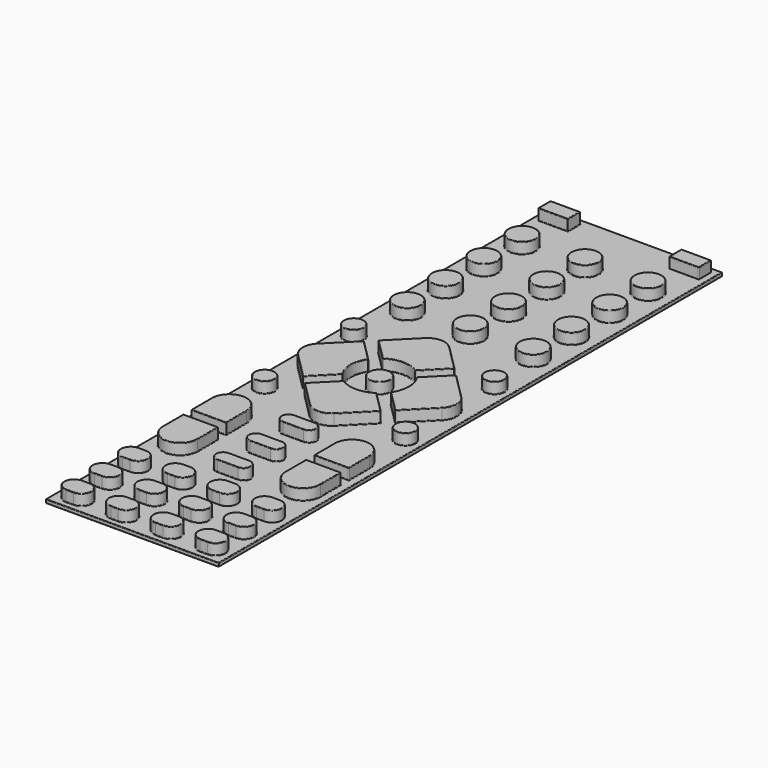
from build123d import *

# Parameters (mm, degrees)
F2_W     = 36.8935
F2_H     = 134.286625
F3_DEPTH = 0.79375
F1_W     = 6.35
F1_H     = 3.302
F1_R     = 2.921
F1_R_2   = 2.12725
F1_R_3   = 2.286
F4_DEPTH = 2.3495
F5_W     = 6.35
F5_H     = 3.302
F6_DEPTH = 2.3495
F7_R     = 0.127
F7_2_R   = 0.127


with BuildPart() as f3:
    # F2 (on Top) → F3 (new body)
    with BuildSketch(Plane.XY):
        with Locations((0.03175, 1.138238)):
            Rectangle(F2_W, F2_H)
    extrude(amount=-F3_DEPTH)

    # F1 (on Top) → F4 (join)
    with BuildSketch(Plane.XY):
        with Locations((-13.97, 65.36055)):
            Rectangle(F1_W, F1_H)
        with Locations((-13.4366, 54.7878)):
            Circle(F1_R)
        with Locations((0, 54.7878)):
            Circle(F1_R)
        with Locations((13.4366, 54.7878)):
            Circle(F1_R)
        with Locations((-13.4366, 44.586798)):
            Circle(F1_R)
        with Locations((0, 44.586798)):
            Circle(F1_R)
        with Locations((13.4366, 44.586798)):
            Circle(F1_R)
        with Locations((-13.4366, 34.385797)):
            Circle(F1_R)
        with Locations((0, 34.385797)):
            Circle(F1_R)
        with Locations((13.4366, 34.385797)):
            Circle(F1_R)
        with Locations((-13.4366, 24.184795)):
            Circle(F1_R)
        with Locations((0, 24.184795)):
            Circle(F1_R)
        with Locations((13.4366, 24.184795)):
            Circle(F1_R)
        with Locations((-15.01775, 11.880948)):
            Circle(F1_R_2)
        with Locations((15.01775, 11.880948)):
            Circle(F1_R_2)
        with BuildLine():
            ThreePointArc((-3.463708, 5.169957), (0, 6.223), (3.463708, 5.169957))
            Line((3.463708, 5.169957), (8.128547, 9.834796))
            Line((8.128547, 9.834796), (2.604274, 15.359069))
            ThreePointArc((2.604274, 15.359069), (0, 16.437795), (-2.604274, 15.359069))
            Line((-2.604274, 15.359069), (-8.128547, 9.834796))
            Line((-8.128547, 9.834796), (-3.463708, 5.169957))
        make_face()
        with BuildLine():
            ThreePointArc((5.169957, 3.463708), (6.223, 0), (5.169957, -3.463708))
            Line((5.169957, -3.463708), (9.834796, -8.128547))
            Line((9.834796, -8.128547), (15.359069, -2.604274))
            ThreePointArc((15.359069, -2.604274), (16.437795, 0), (15.359069, 2.604274))
            Line((15.359069, 2.604274), (9.834796, 8.128547))
            Line((9.834796, 8.128547), (5.169957, 3.463708))
        make_face()
        with BuildLine():
            Line((-15.359069, -2.604274), (-9.834796, -8.128547))
            Line((-9.834796, -8.128547), (-5.169957, -3.463708))
            ThreePointArc((-5.169957, -3.463708), (-6.223, 0), (-5.169957, 3.463708))
            Line((-5.169957, 3.463708), (-9.834796, 8.128547))
            Line((-9.834796, 8.128547), (-15.359069, 2.604274))
            ThreePointArc((-15.359069, 2.604274), (-16.437795, 0), (-15.359069, -2.604274))
        make_face()
        Circle(F1_R_3)
        with Locations((15.01775, -11.880948)):
            Circle(F1_R_2)
        with BuildLine():
            ThreePointArc((3.463708, -5.169957), (0, -6.223), (-3.463708, -5.169957))
            Line((-3.463708, -5.169957), (-8.128547, -9.834796))
            Line((-8.128547, -9.834796), (-2.604274, -15.359069))
            ThreePointArc((-2.604274, -15.359069), (0, -16.437795), (2.604274, -15.359069))
            Line((2.604274, -15.359069), (8.128547, -9.834796))
            Line((8.128547, -9.834796), (3.463708, -5.169957))
        make_face()
        with Locations((-15.01775, -11.880948)):
            Circle(F1_R_2)
        with BuildLine():
            Line((-16.811625, -29.211998), (-9.382125, -29.211998))
            Line((-9.382125, -29.211998), (-9.382125, -23.708545))
            ThreePointArc((-9.382125, -23.708545), (-13.096875, -19.993795), (-16.811625, -23.708545))
            Line((-16.811625, -23.708545), (-16.811625, -29.211998))
        make_face()
        with BuildLine():
            Line((-2.182812, -23.05767), (2.182813, -23.05767))
            ThreePointArc((2.182813, -23.05767), (3.71475, -21.525733), (2.182813, -19.993795))
            Line((2.182813, -19.993795), (-2.182812, -19.993795))
            ThreePointArc((-2.182812, -19.993795), (-3.71475, -21.525733), (-2.182812, -23.05767))
        make_face()
        with BuildLine():
            Line((16.811625, -29.211998), (16.811625, -23.708545))
            ThreePointArc((16.811625, -23.708545), (13.096875, -19.993795), (9.382125, -23.708545))
            Line((9.382125, -23.708545), (9.382125, -29.211998))
            Line((9.382125, -29.211998), (16.811625, -29.211998))
        make_face()
        with BuildLine():
            Line((-16.811625, -31.307498), (-16.811625, -36.81095))
            ThreePointArc((-16.811625, -36.81095), (-13.096875, -40.5257), (-9.382125, -36.81095))
            Line((-9.382125, -36.81095), (-9.382125, -31.307498))
            Line((-9.382125, -31.307498), (-16.811625, -31.307498))
        make_face()
        with BuildLine():
            Line((2.182813, -28.72781), (-2.182812, -28.72781))
            ThreePointArc((-2.182812, -28.72781), (-3.71475, -30.259748), (-2.182812, -31.791685))
            Line((-2.182812, -31.791685), (2.182813, -31.791685))
            ThreePointArc((2.182813, -31.791685), (3.71475, -30.259748), (2.182813, -28.72781))
        make_face()
        with BuildLine():
            ThreePointArc((9.382125, -36.81095), (13.096875, -40.5257), (16.811625, -36.81095))
            Line((16.811625, -36.81095), (16.811625, -31.307498))
            Line((16.811625, -31.307498), (9.382125, -31.307498))
            Line((9.382125, -31.307498), (9.382125, -36.81095))
        make_face()
        with BuildLine():
            Line((2.182813, -37.461825), (-2.182812, -37.461825))
            ThreePointArc((-2.182812, -37.461825), (-3.71475, -38.993763), (-2.182812, -40.5257))
            Line((-2.182812, -40.5257), (2.182813, -40.5257))
            ThreePointArc((2.182813, -40.5257), (3.71475, -38.993763), (2.182813, -37.461825))
        make_face()
        with BuildLine():
            Line((-13.49375, -52.93995), (-15.08125, -52.93995))
            ThreePointArc((-15.08125, -52.93995), (-17.2085, -55.0672), (-15.08125, -57.19445))
            Line((-15.08125, -57.19445), (-13.49375, -57.19445))
            ThreePointArc((-13.49375, -57.19445), (-11.3665, -55.0672), (-13.49375, -52.93995))
        make_face()
        with BuildLine():
            Line((-3.96875, -52.93995), (-5.55625, -52.93995))
            ThreePointArc((-5.55625, -52.93995), (-7.6835, -55.0672), (-5.55625, -57.19445))
            Line((-5.55625, -57.19445), (-3.96875, -57.19445))
            ThreePointArc((-3.96875, -57.19445), (-1.8415, -55.0672), (-3.96875, -52.93995))
        make_face()
        with BuildLine():
            Line((5.55625, -52.93995), (3.96875, -52.93995))
            ThreePointArc((3.96875, -52.93995), (1.8415, -55.0672), (3.96875, -57.19445))
            Line((3.96875, -57.19445), (5.55625, -57.19445))
            ThreePointArc((5.55625, -57.19445), (7.6835, -55.0672), (5.55625, -52.93995))
        make_face()
        with BuildLine():
            Line((15.08125, -52.93995), (13.49375, -52.93995))
            ThreePointArc((13.49375, -52.93995), (11.3665, -55.0672), (13.49375, -57.19445))
            Line((13.49375, -57.19445), (15.08125, -57.19445))
            ThreePointArc((15.08125, -57.19445), (17.2085, -55.0672), (15.08125, -52.93995))
        make_face()
        with BuildLine():
            Line((-13.49375, -60.480575), (-15.08125, -60.480575))
            ThreePointArc((-15.08125, -60.480575), (-17.2085, -62.607825), (-15.08125, -64.735075))
            Line((-15.08125, -64.735075), (-13.49375, -64.735075))
            ThreePointArc((-13.49375, -64.735075), (-11.3665, -62.607825), (-13.49375, -60.480575))
        make_face()
        with BuildLine():
            Line((-3.96875, -60.480575), (-5.55625, -60.480575))
            ThreePointArc((-5.55625, -60.480575), (-7.6835, -62.607825), (-5.55625, -64.735075))
            Line((-5.55625, -64.735075), (-3.96875, -64.735075))
            ThreePointArc((-3.96875, -64.735075), (-1.8415, -62.607825), (-3.96875, -60.480575))
        make_face()
        with BuildLine():
            Line((5.55625, -60.480575), (3.96875, -60.480575))
            ThreePointArc((3.96875, -60.480575), (1.8415, -62.607825), (3.96875, -64.735075))
            Line((3.96875, -64.735075), (5.55625, -64.735075))
            ThreePointArc((5.55625, -64.735075), (7.6835, -62.607825), (5.55625, -60.480575))
        make_face()
        with BuildLine():
            Line((15.08125, -60.480575), (13.49375, -60.480575))
            ThreePointArc((13.49375, -60.480575), (11.3665, -62.607825), (13.49375, -64.735075))
            Line((13.49375, -64.735075), (15.08125, -64.735075))
            ThreePointArc((15.08125, -64.735075), (17.2085, -62.607825), (15.08125, -60.480575))
        make_face()
    extrude(amount=F4_DEPTH)

    # F7
    f7_edges = [f3.edges().sort_by_distance(p)[0] for p in [
        (18.4785, 1.138238, 0),
        (-18.415, 1.138238, 0),
        (0.03175, -66.005075, 0),
        (16.811625, -34.059224, 0),
        (9.382125, -26.460271, 2.3495),
        (16.811625, -26.460271, 2.3495),
        (9.382125, -34.059224, 2.3495),
        (13.096875, -29.211998, 2.3495),
        (9.834796, -8.128547, 1.17475),
        (16.811625, -34.059224, 2.3495),
        (11.3665, -62.607825, 0),
        (14.2875, -64.735075, 0),
        (17.2085, -62.607825, 0),
        (11.3665, -62.607825, 2.3495),
        (14.2875, -64.735075, 2.3495),
        (17.2085, -62.607825, 2.3495),
        (13.49375, -60.480575, 1.17475),
        (1.8415, -62.607825, 0),
        (4.7625, -64.735075, 0),
        (7.6835, -62.607825, 0),
        (1.8415, -62.607825, 2.3495),
        (4.7625, -64.735075, 2.3495),
        (7.6835, -62.607825, 2.3495),
        (-17.2085, -62.607825, 0),
        (-14.2875, -64.735075, 0),
        (-11.3665, -62.607825, 0),
        (-17.2085, -62.607825, 2.3495),
        (-14.2875, -64.735075, 2.3495),
        (-11.3665, -62.607825, 2.3495),
        (-15.08125, -60.480575, 1.17475),
        (-13.97, 63.70955, 0),
        (0.03175, 68.28155, 0),
        (18.4785, 1.138238, -0.79375),
        (0.03175, 68.28155, -0.79375),
        (-18.415, 1.138238, -0.79375),
        (0.03175, -66.005075, -0.79375),
        (-15.08125, -64.735075, 1.17475),
        (5.55625, -60.480575, 1.17475),
        (13.49375, -64.735075, 1.17475),
        (7.6835, -55.0672, 0),
        (18.4785, -66.005075, -0.396875),
        (-18.415, -66.005075, -0.396875),
        (1.8415, -55.0672, 0),
        (-11.3665, -55.0672, 0),
        (3.71475, -38.993763, 0),
        (0, -40.5257, 0),
        (-17.2085, -55.0672, 0),
        (13.096875, -40.5257, 0),
        (9.382125, -34.059224, 0),
        (13.096875, -31.307498, 0),
        (3.71475, -30.259748, 0),
        (-9.382125, -34.059224, 0),
        (0, -28.72781, 0),
        (13.096875, -19.993795, 0),
        (16.811625, -26.460271, 0),
        (13.096875, -29.211998, 0),
        (9.382125, -26.460271, 0),
        (3.71475, -21.525733, 0),
        (0, -23.05767, 0),
        (-9.382125, -26.460271, 0),
        (5.796128, -7.502377, 0),
        (0, -16.437795, 0),
        (-12.596933, -5.366411, 0),
        (12.8905, -11.880948, 0),
        (6.223, 0, 0),
        (12.596933, -5.366411, 0),
        (7.502377, -5.796128, 0),
        (1.8415, -55.0672, 2.3495),
        (-14.2875, -57.19445, 2.3495),
        (-11.3665, -55.0672, 2.3495),
        (-17.2085, -55.0672, 2.3495),
        (0, -40.5257, 2.3495),
        (0, -37.461825, 2.3495),
        (-13.49375, -64.735075, 1.17475),
        (13.096875, -40.5257, 2.3495),
        (15.08125, -64.735075, 1.17475),
        (3.71475, -30.259748, 2.3495),
        (3.96875, -64.735075, 1.17475),
        (-13.49375, -60.480575, 1.17475),
        (3.96875, -60.480575, 1.17475),
        (-16.811625, -34.059224, 2.3495),
        (5.55625, -64.735075, 1.17475),
        (-9.382125, -34.059224, 2.3495),
        (0, -31.791685, 2.3495),
        (16.437795, 0, 0),
        (7.6835, -55.0672, 2.3495),
        (17.2085, -55.0672, 2.3495),
        (15.08125, -60.480575, 1.17475),
        (-8.128547, 9.834796, 1.17475),
        (-5.796128, 7.502377, 2.3495),
        (9.834796, 8.128547, 1.17475),
        (5.169957, -3.463708, 1.17475),
        (15.359069, -2.604274, 1.17475),
        (16.437795, 0, 2.3495),
        (12.596933, -5.366411, 2.3495),
        (7.502377, -5.796128, 2.3495),
        (6.223, 0, 2.3495),
        (12.8905, -11.880948, 2.3495),
        (8.128547, -9.834796, 1.17475),
        (-8.128547, -9.834796, 1.17475),
        (-2.604274, -15.359069, 1.17475),
        (2.604274, -15.359069, 1.17475),
        (0, -16.437795, 2.3495),
        (-5.366411, -12.596933, 2.3495),
        (5.796128, -7.502377, 2.3495),
        (5.366411, -12.596933, 2.3495),
        (5.366411, -12.596933, 0),
        (-13.096875, -29.211998, 2.3495),
        (-16.811625, -26.460271, 2.3495),
        (-9.382125, -26.460271, 2.3495),
        (2.182813, -19.993795, 1.17475),
        (2.182813, -23.05767, 1.17475),
        (0, -23.05767, 2.3495),
        (0, -19.993795, 2.3495),
        (3.71475, -21.525733, 2.3495),
        (0, -19.993795, 0),
        (16.811625, -29.211998, 1.17475),
        (16.811625, -23.708545, 1.17475),
        (13.096875, -19.993795, 2.3495),
        (2.182813, -31.791685, 1.17475),
        (2.182813, -28.72781, 1.17475),
        (0, -28.72781, 2.3495),
        (0, -31.791685, 0),
        (16.811625, -31.307498, 1.17475),
        (9.382125, -31.307498, 1.17475),
        (16.811625, -36.81095, 1.17475),
        (13.096875, -31.307498, 2.3495),
        (2.182813, -40.5257, 1.17475),
        (2.182813, -37.461825, 1.17475),
        (3.71475, -38.993763, 2.3495),
        (0, -37.461825, 0),
        (-15.08125, -57.19445, 1.17475),
        (-13.49375, -57.19445, 1.17475),
        (-13.49375, -52.93995, 1.17475),
        (-15.08125, -52.93995, 1.17475),
        (3.96875, -57.19445, 1.17475),
        (5.55625, -57.19445, 1.17475),
        (5.55625, -52.93995, 1.17475),
        (3.96875, -52.93995, 1.17475),
        (15.08125, -57.19445, 1.17475),
        (15.08125, -52.93995, 1.17475),
        (17.2085, -55.0672, 0),
        (14.2875, -60.480575, 0),
        (14.2875, -60.480575, 2.3495),
        (4.7625, -60.480575, 0),
        (4.7625, -60.480575, 2.3495),
        (-7.6835, -62.607825, 0),
        (-4.7625, -64.735075, 0),
        (-1.8415, -62.607825, 0),
        (-7.6835, -62.607825, 2.3495),
        (-4.7625, -64.735075, 2.3495),
        (-1.8415, -62.607825, 2.3495),
        (-3.96875, -60.480575, 1.17475),
        (-14.2875, -60.480575, 0),
        (-14.2875, -60.480575, 2.3495),
        (11.3665, -55.0672, 0),
        (14.2875, -57.19445, 0),
        (-17.145, 65.36055, 0),
        (-10.795, 65.36055, 0),
        (-17.145, 67.01155, 1.17475),
        (18.4785, 68.28155, -0.396875),
        (-2.921, 54.7878, 0),
        (-2.921, 34.385797, 0),
        (-3.96875, -64.735075, 1.17475),
        (-2.921, 24.184795, 0),
        (12.8905, 11.880948, 0),
        (-17.145, -11.880948, 0),
        (4.7625, -57.19445, 0),
        (14.2875, -52.93995, 0),
        (-7.6835, -55.0672, 0),
        (-1.8415, -55.0672, 0),
        (-14.2875, -52.93995, 0),
        (-3.71475, -38.993763, 0),
        (5.366411, 12.596933, 2.3495),
        (-13.096875, -31.307498, 0),
        (-5.366411, 12.596933, 2.3495),
        (-3.71475, -30.259748, 0),
        (5.796128, 7.502377, 2.3495),
        (-13.096875, -40.5257, 0),
        (-17.145, 11.880948, 2.3495),
        (12.8905, 11.880948, 2.3495),
        (-3.71475, -21.525733, 0),
        (-16.811625, -26.460271, 0),
        (-13.096875, -19.993795, 0),
        (-16.3576, 34.385797, 2.3495),
        (-5.366411, -12.596933, 0),
        (0, -6.223, 0),
        (-16.3576, 44.586798, 2.3495),
        (-2.286, 0, 0),
        (-5.796128, -7.502377, 0),
        (-6.223, 0, 0),
        (-7.502377, -5.796128, 0),
        (-7.502377, 5.796128, 0),
        (-12.596933, 5.366411, 0),
        (0, 6.223, 0),
        (-3.71475, -38.993763, 2.3495),
        (-1.8415, -55.0672, 2.3495),
        (-16.3576, 44.586798, 0),
        (10.5156, 34.385797, 2.3495),
        (-5.55625, -60.480575, 1.17475),
        (-2.921, 44.586798, 0),
        (-4.7625, -57.19445, 2.3495),
        (10.5156, 44.586798, 0),
        (-5.55625, -64.735075, 1.17475),
        (-10.795, 67.01155, 1.17475),
        (7.502377, 5.796128, 0),
        (-3.71475, -30.259748, 2.3495),
        (-16.3576, 54.7878, 0),
        (-10.795, 63.70955, 1.17475),
        (-16.3576, 24.184795, 0),
        (-16.3576, 34.385797, 0),
        (-13.096875, -40.5257, 2.3495),
        (10.5156, 44.586798, 2.3495),
        (-17.145, 63.70955, 1.17475),
        (-13.97, 67.01155, 0),
        (10.5156, 54.7878, 0),
        (10.5156, 34.385797, 0),
        (10.5156, 24.184795, 0),
        (-17.145, 11.880948, 0),
        (-5.366411, 12.596933, 0),
        (12.596933, 5.366411, 0),
        (4.7625, -57.19445, 2.3495),
        (11.3665, -55.0672, 2.3495),
        (4.7625, -52.93995, 2.3495),
        (14.2875, -57.19445, 2.3495),
        (14.2875, -52.93995, 2.3495),
        (-17.145, 65.36055, 2.3495),
        (-16.3576, 54.7878, 2.3495),
        (-10.795, 65.36055, 2.3495),
        (-13.97, 63.70955, 2.3495),
        (-2.921, 54.7878, 2.3495),
        (10.5156, 54.7878, 2.3495),
        (-2.921, 44.586798, 2.3495),
        (-2.921, 34.385797, 2.3495),
        (5.796128, 7.502377, 0),
        (-13.97, 67.01155, 2.3495),
        (5.366411, 12.596933, 0),
        (-16.3576, 24.184795, 2.3495),
        (-2.921, 24.184795, 2.3495),
        (10.5156, 24.184795, 2.3495),
        (-3.463708, 5.169957, 1.17475),
        (3.463708, 5.169957, 1.17475),
        (8.128547, 9.834796, 1.17475),
        (0, 6.223, 2.3495),
        (5.169957, 3.463708, 1.17475),
        (15.359069, 2.604274, 1.17475),
        (7.502377, 5.796128, 2.3495),
        (12.596933, 5.366411, 2.3495),
        (-15.359069, 2.604274, 1.17475),
        (-15.359069, -2.604274, 1.17475),
        (-9.834796, -8.128547, 1.17475),
        (-5.169957, -3.463708, 1.17475),
        (-5.169957, 3.463708, 1.17475),
        (-9.834796, 8.128547, 1.17475),
        (-7.502377, 5.796128, 2.3495),
        (-6.223, 0, 2.3495),
        (-7.502377, -5.796128, 2.3495),
        (-12.596933, -5.366411, 2.3495),
        (-16.437795, 0, 2.3495),
        (-12.596933, 5.366411, 2.3495),
        (-16.437795, 0, 0),
        (-2.286, 0, 2.3495),
        (3.463708, -5.169957, 1.17475),
        (-3.463708, -5.169957, 1.17475),
        (-5.796128, -7.502377, 2.3495),
        (0, -6.223, 2.3495),
        (-17.145, -11.880948, 2.3495),
        (-9.382125, -23.708545, 1.17475),
        (-9.382125, -29.211998, 1.17475),
        (-13.096875, -19.993795, 2.3495),
        (-13.096875, -29.211998, 0),
        (-2.182812, -19.993795, 1.17475),
        (-2.182812, -23.05767, 1.17475),
        (-3.71475, -21.525733, 2.3495),
        (9.382125, -23.708545, 1.17475),
        (9.382125, -29.211998, 1.17475),
        (-9.382125, -36.81095, 1.17475),
        (-9.382125, -31.307498, 1.17475),
        (-16.811625, -36.81095, 1.17475),
        (-13.096875, -31.307498, 2.3495),
        (-16.811625, -34.059224, 0),
        (-2.182812, -31.791685, 1.17475),
        (-2.182812, -28.72781, 1.17475),
        (9.382125, -36.81095, 1.17475),
        (-2.182812, -40.5257, 1.17475),
        (-2.182812, -37.461825, 1.17475),
        (-14.2875, -52.93995, 2.3495),
        (-14.2875, -57.19445, 0),
        (-5.55625, -57.19445, 1.17475),
        (-3.96875, -57.19445, 1.17475),
        (-3.96875, -52.93995, 1.17475),
        (-5.55625, -52.93995, 1.17475),
        (-7.6835, -55.0672, 2.3495),
        (4.7625, -52.93995, 0),
        (13.49375, -57.19445, 1.17475),
        (13.49375, -52.93995, 1.17475),
        (-4.7625, -60.480575, 0),
        (-4.7625, -60.480575, 2.3495),
        (-18.415, 68.28155, -0.396875),
        (-4.7625, -52.93995, 0),
        (-4.7625, -57.19445, 0),
        (0, 16.437795, 2.3495),
        (-4.7625, -52.93995, 2.3495),
        (0, 16.437795, 0),
        (2.604274, 15.359069, 1.17475),
        (-2.604274, 15.359069, 1.17475),
        (-5.796128, 7.502377, 0),
        (-16.811625, -23.708545, 1.17475),
        (-16.811625, -29.211998, 1.17475),
        (-16.811625, -31.307498, 1.17475),
    ]]
    fillet(f7_edges, radius=F7_R)


with BuildPart() as f6:
    # F5 (on face) → F6 (new body, through all)
    with BuildSketch(Plane.XY):
        with Locations((13.97, 65.36055)):
            Rectangle(F5_W, F5_H)
        with BuildLine():
            Line((-15.08125, -49.653825), (-13.49375, -49.653825))
            ThreePointArc((-13.49375, -49.653825), (-11.3665, -47.526575), (-13.49375, -45.399325))
            Line((-13.49375, -45.399325), (-15.08125, -45.399325))
            ThreePointArc((-15.08125, -45.399325), (-17.2085, -47.526575), (-15.08125, -49.653825))
        make_face()
        with BuildLine():
            Line((-3.96875, -45.399325), (-5.55625, -45.399325))
            ThreePointArc((-5.55625, -45.399325), (-7.6835, -47.526575), (-5.55625, -49.653825))
            Line((-5.55625, -49.653825), (-3.96875, -49.653825))
            ThreePointArc((-3.96875, -49.653825), (-1.8415, -47.526575), (-3.96875, -45.399325))
        make_face()
        with BuildLine():
            Line((5.55625, -45.399325), (3.96875, -45.399325))
            ThreePointArc((3.96875, -45.399325), (1.8415, -47.526575), (3.96875, -49.653825))
            Line((3.96875, -49.653825), (5.55625, -49.653825))
            ThreePointArc((5.55625, -49.653825), (7.6835, -47.526575), (5.55625, -45.399325))
        make_face()
        with BuildLine():
            Line((15.08125, -45.399325), (13.49375, -45.399325))
            ThreePointArc((13.49375, -45.399325), (11.3665, -47.526575), (13.49375, -49.653825))
            Line((13.49375, -49.653825), (15.08125, -49.653825))
            ThreePointArc((15.08125, -49.653825), (17.2085, -47.526575), (15.08125, -45.399325))
        make_face()
    extrude(amount=F6_DEPTH)

    # F7#2
    f7_2_edges = [f6.edges().sort_by_distance(p)[0] for p in [
        (11.3665, -47.526575, 2.3495),
        (13.49375, -45.399325, 1.17475),
        (15.08125, -45.399325, 1.17475),
        (15.08125, -49.653825, 1.17475),
        (13.49375, -49.653825, 1.17475),
        (17.2085, -47.526575, 2.3495),
        (1.8415, -47.526575, 2.3495),
        (3.96875, -45.399325, 1.17475),
        (5.55625, -45.399325, 1.17475),
        (5.55625, -49.653825, 1.17475),
        (3.96875, -49.653825, 1.17475),
        (7.6835, -47.526575, 2.3495),
        (17.145, 63.70955, 1.17475),
        (17.145, 67.01155, 1.17475),
        (14.2875, -49.653825, 0),
        (11.3665, -47.526575, 0),
        (14.2875, -45.399325, 0),
        (17.2085, -47.526575, 0),
        (14.2875, -49.653825, 2.3495),
        (14.2875, -45.399325, 2.3495),
        (1.8415, -47.526575, 0),
        (4.7625, -45.399325, 0),
        (7.6835, -47.526575, 0),
        (4.7625, -49.653825, 0),
        (4.7625, -45.399325, 2.3495),
        (4.7625, -49.653825, 2.3495),
        (-7.6835, -47.526575, 0),
        (-1.8415, -47.526575, 0),
        (-7.6835, -47.526575, 2.3495),
        (-1.8415, -47.526575, 2.3495),
        (-5.55625, -45.399325, 1.17475),
        (-3.96875, -45.399325, 1.17475),
        (-3.96875, -49.653825, 1.17475),
        (-5.55625, -49.653825, 1.17475),
        (-4.7625, -49.653825, 2.3495),
        (-14.2875, -49.653825, 0),
        (-15.08125, -45.399325, 1.17475),
        (-11.3665, -47.526575, 0),
        (-13.49375, -45.399325, 1.17475),
        (-17.2085, -47.526575, 0),
        (-17.2085, -47.526575, 2.3495),
        (-14.2875, -49.653825, 2.3495),
        (-13.49375, -49.653825, 1.17475),
        (-15.08125, -49.653825, 1.17475),
        (-11.3665, -47.526575, 2.3495),
        (13.97, 63.70955, 0),
        (10.795, 67.01155, 1.17475),
        (17.145, 65.36055, 0),
        (13.97, 67.01155, 0),
        (10.795, 63.70955, 1.17475),
        (10.795, 65.36055, 2.3495),
        (13.97, 63.70955, 2.3495),
        (17.145, 65.36055, 2.3495),
        (13.97, 67.01155, 2.3495),
        (-4.7625, -45.399325, 0),
        (-4.7625, -45.399325, 2.3495),
        (-4.7625, -49.653825, 0),
        (-14.2875, -45.399325, 0),
        (-14.2875, -45.399325, 2.3495),
        (10.795, 65.36055, 0),
    ]]
    fillet(f7_2_edges, radius=F7_2_R)


solid = Compound([f3.part, f6.part])
